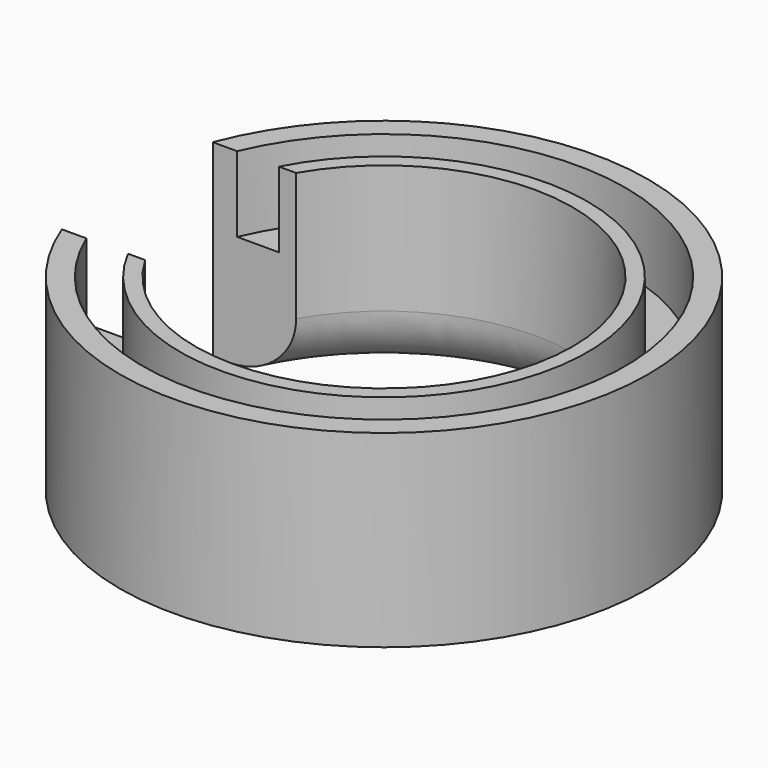
from build123d import *

# Parameters (mm, degrees)
F0_R     = 4.445
F0_R_2   = 3.175
F1_DEPTH = 3.175
F2_R     = 4.064
F2_R_2   = 3.429
F3_DEPTH = 1.27
F4_R     = 1.016
F5_W     = 6.35
F5_H     = 3.175
F6_DEPTH = 25.4


with BuildPart() as f1:
    # F0 (on Top) → F1 (new body)
    with BuildSketch(Plane.XY):
        Circle(F0_R)
        Circle(F0_R_2, mode=Mode.SUBTRACT)
    extrude(amount=F1_DEPTH)

    # F2 (on face) → F3 (cut)
    with BuildSketch(Plane.XY.offset(3.175)):
        Circle(F2_R)
        Circle(F2_R_2, mode=Mode.SUBTRACT)
    extrude(amount=-F3_DEPTH, mode=Mode.SUBTRACT)

    # F4
    f4_edges = [f1.edges().sort_by_distance(p)[0] for p in [
        (-3.175, 0, 0),
    ]]
    fillet(f4_edges, radius=F4_R)

    # F5 (on Top) → F6 (cut)
    with BuildSketch(Plane.XY):
        with Locations((-3.175, 0)):
            Rectangle(F5_W, F5_H)
    extrude(amount=F6_DEPTH, mode=Mode.SUBTRACT)


solid = f1.part
